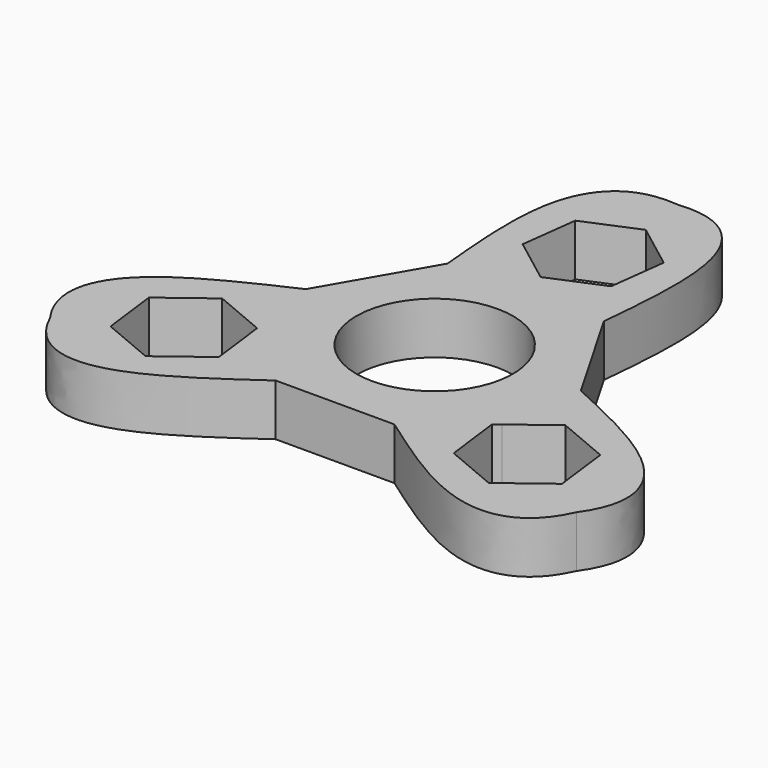
from build123d import *

# Parameters (mm, degrees)
F1_DEPTH = 7.2


with BuildPart() as f1:
    # F0 (on Top) → F1 (new body)
    with BuildSketch(Plane.XY):
        with BuildLine():
            Line((-8.2668317482, -17.3311792314), (0.1017643333, -17.3311792314))
            Line((0.1017643333, -17.3311792314), (8.2668317482, -17.3311792314))
            add(Edge.make_bspline(
                [(36.6192528714, -21.1421355028), (36.0259011039, -22.4667622734), (33.1013576776, -26.9667648317), (23.9156707234, -28.3936125615), (14.039303545, -21.4118387937), (8.2668317482, -17.3311792314)],
                knots=[0.4597765415, 0.4597765415, 0.4597765415, 0.4597765415, 0.5296754291, 0.7251078993, 1, 1, 1, 1], degree=3))
            add(Edge.make_bspline(
                [(36.6192528714, -21.1421355028), (37.4697374215, -19.9659644134), (39.9045822409, -15.1832342327), (36.5474251452, -6.5147721142), (25.5628481096, -1.4524741246), (19.142657366, 1.506303313)],
                knots=[0.4597765415, 0.4597765415, 0.4597765415, 0.4597765415, 0.5296754291, 0.7251078993, 1, 1, 1, 1], degree=3))
            Line((19.142657366, 1.506303313), (10.8758256178, 15.8248759184))
            add(Edge.make_bspline(
                [(0, 42.2842710057), (1.4438363177, 42.4327266869), (6.8032245633, 42.1499990644), (12.6317544218, 34.9083846758), (11.5235445645, 22.8643129183), (10.8758256178, 15.8248759184)],
                knots=[0.4597765415, 0.4597765415, 0.4597765415, 0.4597765415, 0.5296754291, 0.7251078993, 1, 1, 1, 1], degree=3))
            add(Edge.make_bspline(
                [(0, 42.2842710057), (-1.4438363177, 42.4327266869), (-6.8032245633, 42.1499990644), (-12.6317544218, 34.9083846758), (-11.5235445645, 22.8643129183), (-10.8758256178, 15.8248759184)],
                knots=[0.4597765415, 0.4597765415, 0.4597765415, 0.4597765415, 0.5296754291, 0.7251078993, 1, 1, 1, 1], degree=3))
            Line((-10.8758256178, 15.8248759184), (-19.142657366, 1.506303313))
            add(Edge.make_bspline(
                [(-36.6192528714, -21.1421355028), (-37.4697374215, -19.9659644134), (-39.9045822409, -15.1832342327), (-36.5474251452, -6.5147721142), (-25.5628481096, -1.4524741246), (-19.142657366, 1.506303313)],
                knots=[0.4597765415, 0.4597765415, 0.4597765415, 0.4597765415, 0.5296754291, 0.7251078993, 1, 1, 1, 1], degree=3))
            add(Edge.make_bspline(
                [(-36.6192528714, -21.1421355028), (-36.0259011039, -22.4667622734), (-33.1013576776, -26.9667648317), (-23.9156707234, -28.3936125615), (-14.039303545, -21.4118387937), (-8.2668317482, -17.3311792314)],
                knots=[0.4597765415, 0.4597765415, 0.4597765415, 0.4597765415, 0.5296754291, 0.7251078993, 1, 1, 1, 1], degree=3))
        make_face()
        Polygon((-31.2220487017, -10.6943638675), (-24.8726151374, -5.881392497), (-17.5297428808, -8.9736775782), (-17.3953376506, -10.0432028752), (-16.5363041885, -16.8789340297), (-22.8857377528, -21.6919054001), (-30.2286100094, -18.599620319), align=None, mode=Mode.SUBTRACT)
        with BuildLine():
            ThreePointArc((0.0640009602, -10.8998121028), (-9.9190071048, 4.5192143183), (8.2668317482, 7.1041884017))
            add(Edge.make_bspline(
                [(8.2668317482, 7.1041884017), (8.6052555966, 6.6408728417), (8.943679445, 6.1775572816), (9.2821032933, 5.7142417215)],
                knots=[0, 0, 0, 0, 1.7212577042, 1.7212577042, 1.7212577042, 1.7212577042], degree=3))
            ThreePointArc((9.2821032933, 5.7142417215), (9.5312177763, -5.2882783305), (0.0640009602, -10.8998121028))
        make_face(mode=Mode.SUBTRACT)
        Polygon((24.8726151374, -21.6919054001), (17.5297428808, -18.599620319), (16.5363041884, -10.6943638675), (17.3953376506, -10.0432028752), (22.8857377528, -5.881392497), (30.2286100094, -8.9736775782), (31.2220487017, -16.8789340297), (30.3630152395, -17.5300950219), align=None, mode=Mode.SUBTRACT)
        Polygon((-6.3494335643, 32.3862692676), (0.9934386923, 35.4785543487), (7.3428722566, 30.6655829783), (6.3494335643, 22.7603265268), (0, 20.0864057505), (-0.9934386923, 19.6680414456), (-7.3428722566, 24.481012816), align=None, mode=Mode.SUBTRACT)
    extrude(amount=F1_DEPTH)


solid = f1.part
